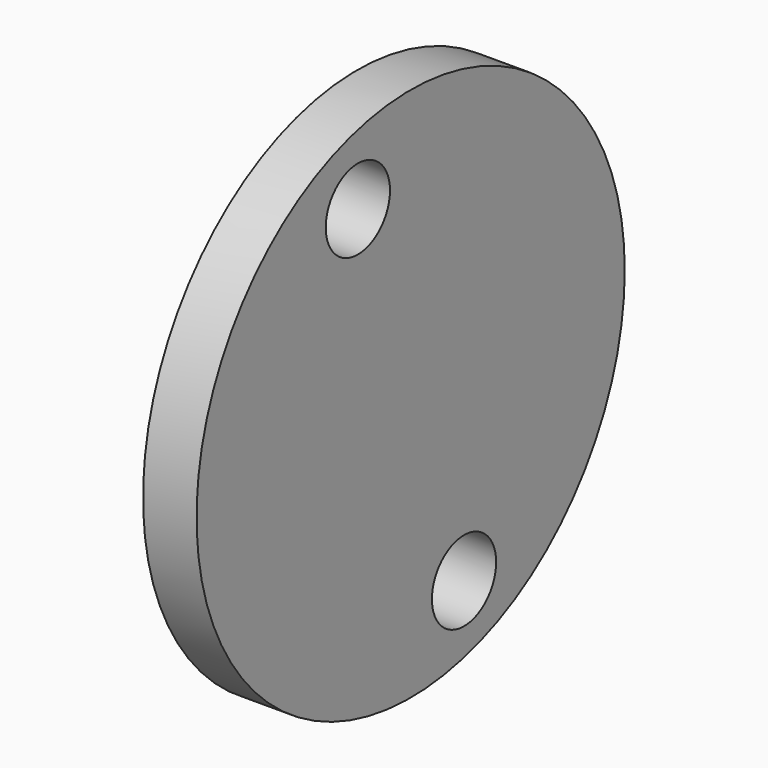
from build123d import *

# Parameters (mm, degrees)
F0_R     = 10
F0_R_2   = 1.5
F1_DEPTH = 2


with BuildPart() as f1:
    # F0 (on Right) → F1 (new body)
    with BuildSketch(Plane.YZ):
        Circle(F0_R)
        with Locations((2.492547, -7.160564)):
            Circle(F0_R_2, mode=Mode.SUBTRACT)
        with Locations((-2.465595, 7.083138)):
            Circle(F0_R_2, mode=Mode.SUBTRACT)
    extrude(amount=F1_DEPTH)


solid = f1.part
